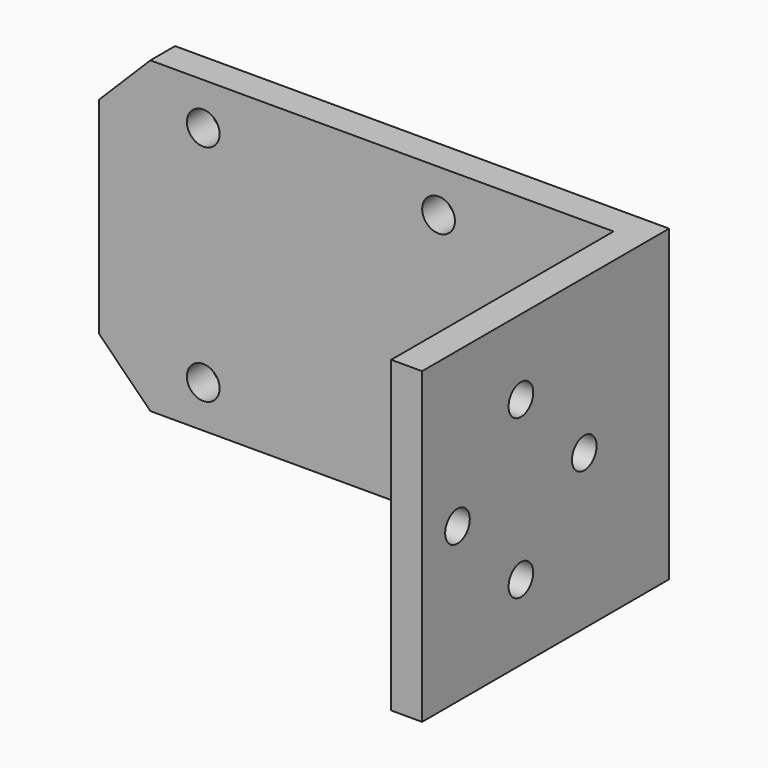
from build123d import *

# Parameters (mm, degrees)
F0_R     = 2.0193
F1_DEPTH = 3.81
F2_DEPTH = 38.1
F3_R     = 1.89865
F4_DEPTH = 67.311


with BuildPart() as f1:
    # F0 (on Front) → F1 (new body)
    with BuildSketch(Plane.XZ):
        Polygon((0, 0), (0, 19.05), (-57.15, 19.05), (-63.5, 12.7), (-63.5, 0), (-63.5, -12.7), (-57.15, -19.05), (0, -19.05), align=None)
        with Locations((-50.6222, -13.8176)):
            Circle(F0_R, mode=Mode.SUBTRACT)
        with Locations((-21.59, -13.8176)):
            Circle(F0_R, mode=Mode.SUBTRACT)
        with Locations((-50.6222, 13.8176)):
            Circle(F0_R, mode=Mode.SUBTRACT)
        with Locations((-21.59, 13.8176)):
            Circle(F0_R, mode=Mode.SUBTRACT)
    extrude(amount=F1_DEPTH)

    # F0 (on Front) → F2 (join)
    with BuildSketch(Plane.XZ):
        Polygon((3.81, 19.05), (0, 19.05), (0, 0), (0, -19.05), (3.81, -19.05), (3.81, 0), align=None)
    extrude(amount=F2_DEPTH)

    # F3 (on face) → F4 (cut, through all)
    with BuildSketch(Plane.YZ.offset(3.81)):
        with Locations((-22.86, 9.779)):
            Circle(F3_R)
        with Locations((-22.86, -9.779)):
            Circle(F3_R)
        with Locations((-32.639, 0)):
            Circle(F3_R)
        with Locations((-13.081, 0)):
            Circle(F3_R)
    extrude(amount=-F4_DEPTH, mode=Mode.SUBTRACT)


solid = f1.part
